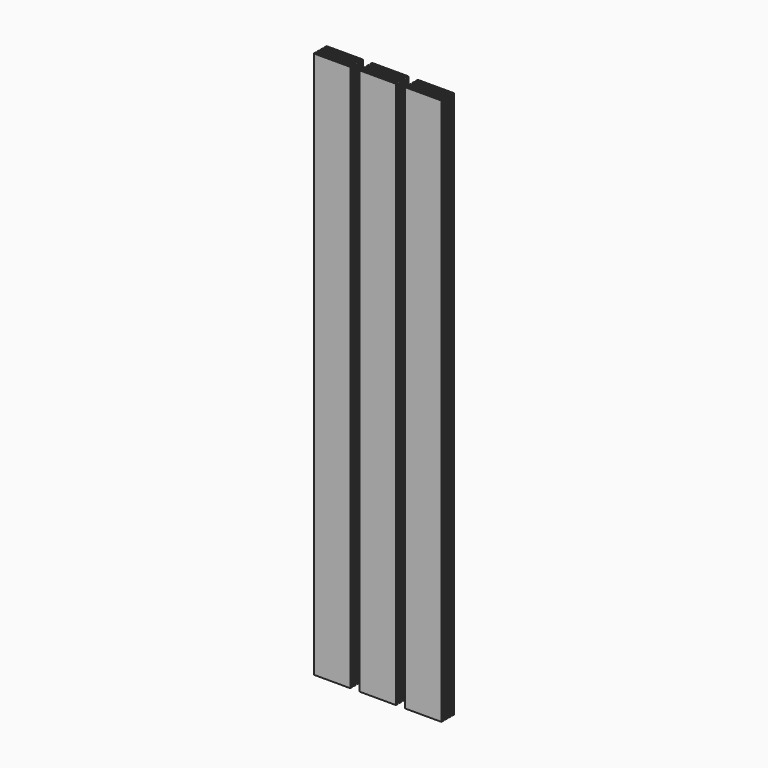
from build123d import *

# Parameters (mm, degrees)
F0_W     = 101.6
F0_H     = 6.35
F1_DEPTH = 762


with BuildPart() as f1:
    # F0 (on Top) → F1 (new body, symmetric)
    with BuildSketch(Plane.XY):
        with Locations((50.8, 3.175)):
            Rectangle(F0_W, F0_H)
        with Locations((50.8, 15.875)):
            Rectangle(F0_W, F0_H)
        with Locations((50.8, 28.575)):
            Rectangle(F0_W, F0_H)
        with Locations((50.8, 41.275)):
            Rectangle(F0_W, F0_H)
        with Locations((177.8, 3.175)):
            Rectangle(F0_W, F0_H)
        with Locations((177.8, 15.875)):
            Rectangle(F0_W, F0_H)
        with Locations((177.8, 28.575)):
            Rectangle(F0_W, F0_H)
        with Locations((177.8, 41.275)):
            Rectangle(F0_W, F0_H)
        with Locations((304.8, 3.175)):
            Rectangle(F0_W, F0_H)
        with Locations((304.8, 15.875)):
            Rectangle(F0_W, F0_H)
        with Locations((304.8, 28.575)):
            Rectangle(F0_W, F0_H)
        with Locations((304.8, 41.275)):
            Rectangle(F0_W, F0_H)
    extrude(amount=F1_DEPTH, both=True)


solid = f1.part
